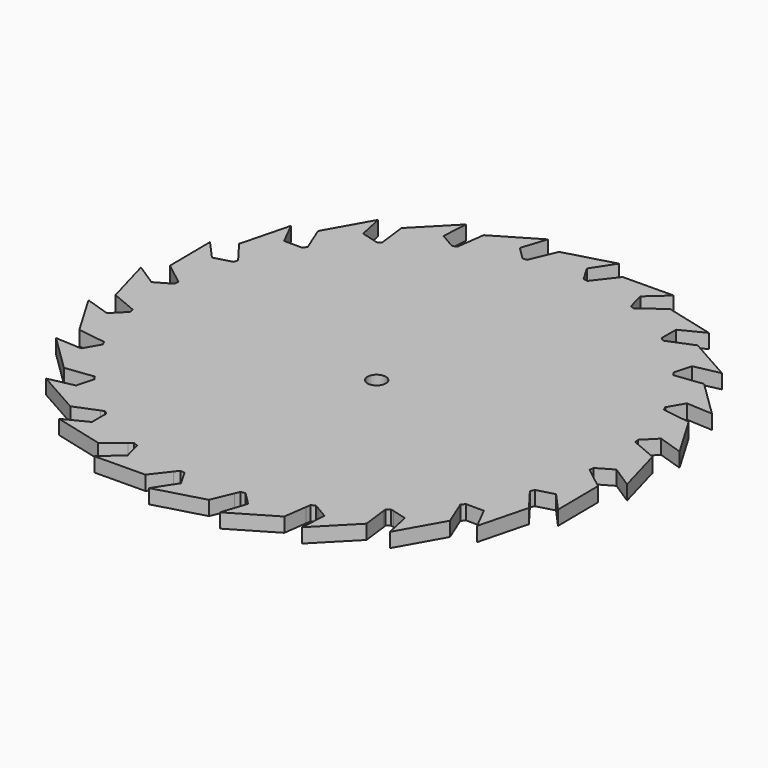
from build123d import *

# Parameters (mm, degrees)
F0_R     = 2.55
F1_DEPTH = 4


with BuildPart() as f1:
    # F0 (on Top) → F1 (new body)
    with BuildSketch(Plane.XY):
        with BuildLine():
            ThreePointArc((-124.5062904637, 34.9019781678), (-94.6798918454, 130.5077918763), (-13.4265490771, 71.9588383555))
            ThreePointArc((-13.4265490771, 71.9588383555), (-15.9460629819, 54.5041481071), (-23.2989066791, 38.4744927287))
            Line((-23.2989066791, 38.4744927287), (-18.4941291809, 38.4744927287))
            Line((-18.4941291809, 38.4744927287), (-15.1902316609, 31.9699118096))
            Line((-15.1902316609, 31.9699118096), (-11.6771652001, 45.6336782124))
            Line((-11.6771652001, 45.6336782124), (-16.4286631589, 51.9111353048))
            Line((-16.4286631589, 51.9111353048), (-15.9749666852, 53.0586016821))
            Line((-15.9749666852, 53.0586016821), (-11.0981749339, 54.3653340935))
            Line((-11.0981749339, 54.3653340935), (-6.2233455697, 48.9375029958))
            Line((-6.2233455697, 48.9375029958), (-6.3664269186, 63.0449363554))
            Line((-6.3664269186, 63.0449363554), (-12.5807469609, 67.8787161199))
            Line((-12.5807469609, 67.8787161199), (-12.4394959717, 69.1045088166))
            Line((-12.4394959717, 69.1045088166), (-8.0670841047, 71.628921985))
            Line((-8.0670841047, 71.628921985), (-1.9535344613, 67.6477384281))
            Line((-1.9535344613, 67.6477384281), (-5.7430128625, 81.2374404747))
            Line((-5.7430128625, 81.2374404747), (-12.996659347, 84.2981288085))
            Line((-12.996659347, 84.2981288085), (-13.1774798638, 85.5187120781))
            Line((-13.1774798638, 85.5187120781), (-9.607420524, 89.0887714179))
            Line((-9.607420524, 89.0887714179), (-2.6717789066, 86.8255464819))
            Line((-2.6717789066, 86.8255464819), (-9.8494076693, 98.9714014791))
            Line((-9.8494076693, 98.9714014791), (-17.6480565754, 100.0504175303))
            Line((-17.6480565754, 100.0504175303), (-18.1386259788, 101.1826106401))
            Line((-18.1386259788, 101.1826106401), (-15.6142128104, 105.5550225071))
            Line((-15.6142128104, 105.5550225071), (-8.3291317335, 105.1639912313))
            Line((-8.3291317335, 105.1639912313), (-18.4057673193, 115.038279233))
            Line((-18.4057673193, 115.038279233), (-26.2179536118, 114.0620898408))
            Line((-26.2179536118, 114.0620898408), (-26.9848404077, 115.0287357013))
            Line((-26.9848404077, 115.0287357013), (-25.6781079963, 119.9055274526))
            Line((-25.6781079963, 119.9055274526), (-18.5400536961, 121.4133379722))
            Line((-18.5400536961, 121.4133379722), (-30.8289900422, 128.3431425691))
            Line((-30.8289900422, 128.3431425691), (-38.1223261356, 125.3782734275))
            Line((-38.1223261356, 125.3782734275), (-39.1132682562, 126.1134967208))
            Line((-39.1132682562, 126.1134967208), (-39.1132682562, 131.1623230577))
            Line((-39.1132682562, 131.1623230577), (-32.6086873371, 134.4662205776))
            Line((-32.6086873371, 134.4662205776), (-46.2724537399, 137.9792870384))
            Line((-46.2724537399, 137.9792870384), (-52.5499108323, 133.2277890797))
            Line((-52.5499108323, 133.2277890797), (-53.6973772096, 133.6814855534))
            Line((-53.6973772096, 133.6814855534), (-55.004109621, 138.5582773046))
            Line((-55.004109621, 138.5582773046), (-49.5762785233, 143.4331066688))
            Line((-49.5762785233, 143.4331066688), (-63.6837118829, 143.2900253199))
            Line((-63.6837118829, 143.2900253199), (-68.5174916473, 137.0757052777))
            Line((-68.5174916473, 137.0757052777), (-69.7432843441, 137.2169562669))
            Line((-69.7432843441, 137.2169562669), (-72.2676975125, 141.5893681339))
            Line((-72.2676975125, 141.5893681339), (-68.2865139556, 147.7029177772))
            Line((-68.2865139556, 147.7029177772), (-81.8762160022, 143.9134393761))
            Line((-81.8762160022, 143.9134393761), (-84.936904336, 136.6597928916))
            Line((-84.936904336, 136.6597928916), (-86.1574876056, 136.4789723748))
            Line((-86.1574876056, 136.4789723748), (-89.7275469454, 140.0490317146))
            Line((-89.7275469454, 140.0490317146), (-87.4643220094, 146.984673332))
            Line((-87.4643220094, 146.984673332), (-99.6101770066, 139.8070445692))
            Line((-99.6101770066, 139.8070445692), (-100.6891930578, 132.0083956632))
            Line((-100.6891930578, 132.0083956632), (-101.8213861675, 131.5178262597))
            Line((-101.8213861675, 131.5178262597), (-106.1937980345, 134.0422394282))
            Line((-106.1937980345, 134.0422394282), (-105.8027667588, 141.3273205051))
            Line((-105.8027667588, 141.3273205051), (-115.6770547604, 131.2506849193))
            Line((-115.6770547604, 131.2506849193), (-114.7008653683, 123.4384986267))
            Line((-114.7008653683, 123.4384986267), (-115.6675112288, 122.6716118309))
            Line((-115.6675112288, 122.6716118309), (-120.54430298, 123.9783442423))
            Line((-120.54430298, 123.9783442423), (-122.0521134997, 131.1163985424))
            Line((-122.0521134997, 131.1163985424), (-128.9819180965, 118.8274621964))
            Line((-128.9819180965, 118.8274621964), (-126.017048955, 111.5341261029))
            Line((-126.017048955, 111.5341261029), (-126.7522722483, 110.5431839824))
            Line((-126.7522722483, 110.5431839824), (-131.8010985851, 110.5431839824))
            Line((-131.8010985851, 110.5431839824), (-135.1049961051, 117.0477649015))
            Line((-135.1049961051, 117.0477649015), (-138.6180625659, 103.3839984987))
            Line((-138.6180625659, 103.3839984987), (-133.8665646072, 97.1065414063))
            Line((-133.8665646072, 97.1065414063), (-134.3202610809, 95.959075029))
            Line((-134.3202610809, 95.959075029), (-139.1970528321, 94.6523426176))
            Line((-139.1970528321, 94.6523426176), (-144.0718821963, 100.0801737153))
            Line((-144.0718821963, 100.0801737153), (-143.9288008474, 85.9727403557))
            Line((-143.9288008474, 85.9727403557), (-137.7144808052, 81.1389605912))
            Line((-137.7144808052, 81.1389605912), (-137.8557317944, 79.9131678945))
            Line((-137.8557317944, 79.9131678945), (-142.2281436614, 77.3887547261))
            Line((-142.2281436614, 77.3887547261), (-148.3416933047, 81.369938283))
            Line((-148.3416933047, 81.369938283), (-144.5522149036, 67.7802362364))
            Line((-144.5522149036, 67.7802362364), (-137.2985684191, 64.7195479026))
            Line((-137.2985684191, 64.7195479026), (-137.1177479023, 63.498964633))
            Line((-137.1177479023, 63.498964633), (-140.6878072421, 59.9289052932))
            Line((-140.6878072421, 59.9289052932), (-147.6234488595, 62.1921302291))
            Line((-147.6234488595, 62.1921302291), (-140.4458200967, 50.046275232))
            Line((-140.4458200967, 50.046275232), (-132.6471711907, 48.9672591808))
            Line((-132.6471711907, 48.9672591808), (-132.1566017872, 47.835066071))
            Line((-132.1566017872, 47.835066071), (-134.6810149557, 43.462654204))
            Line((-134.6810149557, 43.462654204), (-141.9660960326, 43.8536854798))
            Line((-141.9660960326, 43.8536854798), (-131.8894604467, 33.9793974781))
            Line((-131.8894604467, 33.9793974781), (-124.5062904637, 34.9019781678))
        make_face()
        with BuildLine():
            ThreePointArc((-23.2989066791, 38.4744927287), (-15.9460629819, 54.5041481071), (-13.4265490771, 71.9588383555))
            ThreePointArc((-13.4265490771, 71.9588383555), (-94.6798918454, 130.5077918763), (-124.5062904637, 34.9019781678))
            Line((-124.5062904637, 34.9019781678), (-124.0772741542, 34.9555868702))
            Line((-124.0772741542, 34.9555868702), (-123.3103873583, 33.9889410098))
            Line((-123.3103873583, 33.9889410098), (-123.4364920799, 33.5183117819))
            ThreePointArc((-123.4364920799, 33.5183117819), (-118.5620502553, 28.0877025684), (-113.0807312325, 23.2703546153))
            Line((-113.0807312325, 23.2703546153), (-112.1729016304, 23.6394032836))
            Line((-112.1729016304, 23.6394032836), (-111.1819595098, 22.9041799903))
            Line((-111.1819595098, 22.9041799903), (-111.1819595098, 21.8488016761))
            ThreePointArc((-111.1819595098, 21.8488016761), (-105.2066304472, 18.052017229), (-98.8358253845, 14.9644660313))
            Line((-98.8358253845, 14.9644660313), (-97.7453169338, 15.7898876314))
            Line((-97.7453169338, 15.7898876314), (-96.5978505565, 15.3361911577))
            Line((-96.5978505565, 15.3361911577), (-96.2260421237, 13.948583196))
            ThreePointArc((-96.2260421237, 13.948583196), (-89.5738097681, 11.9473835068), (-82.7388325045, 10.7063833793))
            Line((-82.7388325045, 10.7063833793), (-81.7777361187, 11.9419714334))
            Line((-81.7777361187, 11.9419714334), (-80.551943422, 11.8007204442))
            Line((-80.551943422, 11.8007204442), (-79.7487288179, 10.4095119406))
            ThreePointArc((-79.7487288179, 10.4095119406), (-72.8413867162, 10.280875054), (-65.9629386228, 10.9249823317))
            Line((-65.9629386228, 10.9249823317), (-65.3583234301, 12.3578838195))
            Line((-65.3583234301, 12.3578838195), (-64.1377401605, 12.5387043363))
            Line((-64.1377401605, 12.5387043363), (-63.0366787862, 11.4376429621))
            ThreePointArc((-63.0366787862, 11.4376429621), (-56.292631901, 13.1882717832), (-49.7888666259, 15.6878531294))
            Line((-49.7888666259, 15.6878531294), (-49.6060347082, 17.0092810479))
            Line((-49.6060347082, 17.0092810479), (-48.4738415985, 17.4998504513))
            Line((-48.4738415985, 17.4998504513), (-47.3507659556, 16.8514424266))
            ThreePointArc((-47.3507659556, 16.8514424266), (-41.1899957069, 20.4188537942), (-35.480998155, 24.6719539429))
            Line((-35.480998155, 24.6719539429), (-35.5943623977, 25.5791780843))
            Line((-35.5943623977, 25.5791780843), (-34.6277165372, 26.3460648802))
            Line((-34.6277165372, 26.3460648802), (-33.8087849573, 26.1266328247))
            ThreePointArc((-33.8087849573, 26.1266328247), (-28.6525942831, 31.366930379), (-24.156050279, 37.1831243875))
            Line((-24.156050279, 37.1831243875), (-24.2781788111, 37.4835506082))
            Line((-24.2781788111, 37.4835506082), (-23.5429555178, 38.4744927287))
            Line((-23.5429555178, 38.4744927287), (-23.2989066791, 38.4744927287))
        make_face()
        with Locations((-75.147613883, 71.9588383555)):
            Circle(F0_R, mode=Mode.SUBTRACT)
        with BuildLine():
            ThreePointArc((-113.0807312325, 23.2703546153), (-118.5620502553, 28.0877025684), (-123.4364920799, 33.5183117819))
            Line((-123.4364920799, 33.5183117819), (-124.6171197697, 29.1121492585))
            Line((-124.6171197697, 29.1121492585), (-131.7551740699, 27.6043387389))
            Line((-131.7551740699, 27.6043387389), (-119.4662377238, 20.674534142))
            Line((-119.4662377238, 20.674534142), (-113.0807312325, 23.2703546153))
        make_face()
        with BuildLine():
            ThreePointArc((-98.8358253845, 14.9644660313), (-105.2066304472, 18.052017229), (-111.1819595098, 21.8488016761))
            Line((-111.1819595098, 21.8488016761), (-111.1819595098, 17.8553536534))
            Line((-111.1819595098, 17.8553536534), (-117.686540429, 14.5514561335))
            Line((-117.686540429, 14.5514561335), (-104.0227740261, 11.0383896727))
            Line((-104.0227740261, 11.0383896727), (-98.8358253845, 14.9644660313))
        make_face()
        with BuildLine():
            ThreePointArc((-82.7388325045, 10.7063833793), (-89.5738097681, 11.9473835068), (-96.2260421237, 13.948583196))
            Line((-96.2260421237, 13.948583196), (-95.2911181451, 10.4593994065))
            Line((-95.2911181451, 10.4593994065), (-100.7189492428, 5.5845700422))
            Line((-100.7189492428, 5.5845700422), (-86.6115158832, 5.7276513912))
            Line((-86.6115158832, 5.7276513912), (-82.7388325045, 10.7063833793))
        make_face()
        with BuildLine():
            ThreePointArc((-65.9629386228, 10.9249823317), (-72.8413867162, 10.280875054), (-79.7487288179, 10.4095119406))
            Line((-79.7487288179, 10.4095119406), (-78.0275302535, 7.4283085772))
            Line((-78.0275302535, 7.4283085772), (-82.0087138105, 1.3147589338))
            Line((-82.0087138105, 1.3147589338), (-68.4190117639, 5.104237335))
            Line((-68.4190117639, 5.104237335), (-65.9629386228, 10.9249823317))
        make_face()
        with BuildLine():
            Line((-50.6850507595, 9.2106321419), (-49.7888666259, 15.6878531294))
            ThreePointArc((-49.7888666259, 15.6878531294), (-56.292631901, 13.1882717832), (-63.0366787862, 11.4376429621))
            Line((-63.0366787862, 11.4376429621), (-60.5676808207, 8.9686449965))
            Line((-60.5676808207, 8.9686449965), (-62.8309057566, 2.0330033791))
            Line((-62.8309057566, 2.0330033791), (-50.6850507595, 9.2106321419))
        make_face()
        with BuildLine():
            Line((-34.6181730056, 17.7669917918), (-35.480998155, 24.6719539429))
            ThreePointArc((-35.480998155, 24.6719539429), (-41.1899957069, 20.4188537942), (-47.3507659556, 16.8514424266))
            Line((-47.3507659556, 16.8514424266), (-44.1014297315, 14.9754372829))
            Line((-44.1014297315, 14.9754372829), (-44.4924610072, 7.690356206))
            Line((-44.4924610072, 7.690356206), (-34.6181730056, 17.7669917918))
        make_face()
        with BuildLine():
            Line((-21.3133096695, 30.1902145147), (-24.156050279, 37.1831243875))
            ThreePointArc((-24.156050279, 37.1831243875), (-28.6525942831, 31.366930379), (-33.8087849573, 26.1266328247))
            Line((-33.8087849573, 26.1266328247), (-29.750924786, 25.0393324688))
            Line((-29.750924786, 25.0393324688), (-28.2431142663, 17.9012781686))
            Line((-28.2431142663, 17.9012781686), (-21.3133096695, 30.1902145147))
        make_face()
    extrude(amount=F1_DEPTH)


solid = f1.part
